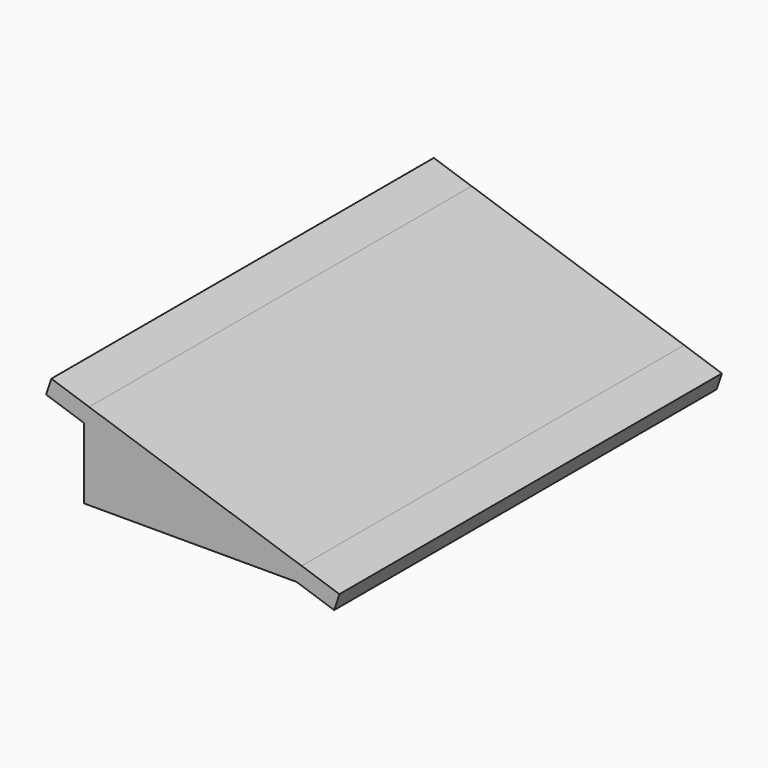
from build123d import *

# Parameters (mm, degrees)
F1_DEPTH = 5486.4
F2_W     = 5308.6
F2_H     = 812.8
F3_DEPTH = 3352.8


with BuildPart() as f1:
    # F0 (on Front) → F1 (new body)
    with BuildSketch(Plane.XZ):
        Polygon((-433.738004, 957.379335), (0, 812.8), (60.241389, 993.524168), (-373.496614, 1138.103503), align=None)
        Polygon((0, 812.8), (2438.4, 0), (2498.641389, 180.724168), (60.241389, 993.524168), align=None)
        Polygon((2498.641389, 180.724168), (2438.4, 0), (2872.138004, -144.579335), (2932.379393, 36.144834), align=None)
        Polygon((0, 812.8), (0, 0), (2438.4, 0), align=None)
    extrude(amount=F1_DEPTH)

    # F2 (on face) → F3 (cut)
    with BuildSketch(Plane(origin=(-677.578004, 0, 225.859335), x_dir=(0, -1, 0), z_dir=(-0.948683, 0, 0.316228))):
        with Locations((2743.2, 364.689785)):
            Rectangle(F2_W, F2_H)
    extrude(amount=-F3_DEPTH, mode=Mode.SUBTRACT)


solid = f1.part
